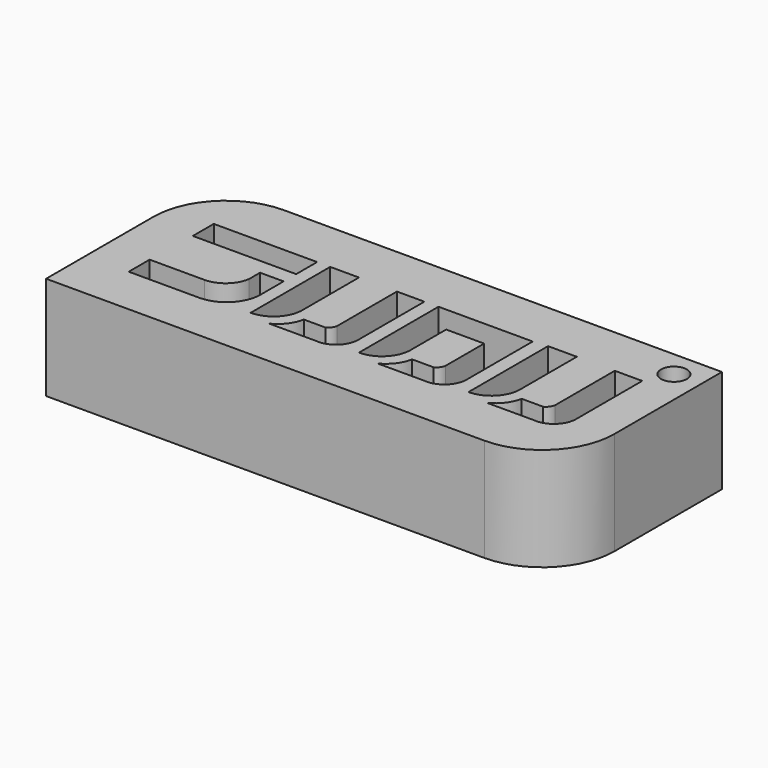
from build123d import *

# Parameters (mm, degrees)
F0_W     = 49.427262
F0_H     = 20
F1_DEPTH = 10
F2_W     = 10.004918
F2_H     = 2.53289
F3_DEPTH = 9
F4_R     = 7
F5_R     = 1.254098
F6_DEPTH = 10.001


with BuildPart() as f1:
    # F0 (on Top) → F1 (new body)
    with BuildSketch(Plane.XY):
        Rectangle(F0_W, F0_H)
    extrude(amount=F1_DEPTH)

    # F2 (on face) → F3 (cut)
    with BuildSketch(Plane.XY.offset(10)):
        with Locations((-15.424379, 3.665117)):
            Rectangle(F2_W, F2_H)
        with BuildLine():
            Line((-10.42192, 0.878937), (-12.701521, 0.878937))
            Line((-12.701521, 0.878937), (-12.701521, 0.245714))
            ThreePointArc((-12.701521, 0.245714), (-12.678233, -0.099326), (-12.701521, -0.444367))
            ThreePointArc((-12.701521, -0.444367), (-13.552341, -2.029358), (-15.234413, -2.66711))
            Line((-15.234413, -2.66711), (-20.553483, -2.66711))
            Line((-20.553483, -2.66711), (-20.553483, -5.2))
            Line((-20.553483, -5.2), (-13.717022, -5.2))
            ThreePointArc((-13.717022, -5.2), (-11.387862, -4.235716), (-10.42192, -1.907243))
            Line((-10.42192, -1.907243), (-10.42192, 0.878937))
        make_face()
        with BuildLine():
            ThreePointArc((-12.701521, -0.444367), (-12.678233, -0.099326), (-12.701521, 0.245714))
            Line((-12.701521, 0.245714), (-12.701521, -0.444367))
        make_face()
        with BuildLine():
            Line((-6.369294, 4.931562), (-9.155474, 4.931562))
            Line((-9.155474, 4.931562), (-9.155474, -4.693422))
            ThreePointArc((-9.155474, -4.693422), (-7.228804, -3.922643), (-6.369294, -2.033887))
            Line((-6.369294, -2.033887), (-6.369294, 4.931562))
        make_face()
        with BuildLine():
            Line((-0.037068, 4.931562), (-2.696603, 4.931562))
            Line((-2.696603, 4.931562), (-2.696603, -1.907243))
            ThreePointArc((-2.696603, -1.907243), (-2.679752, -2.097209), (-2.696603, -2.287176))
            ThreePointArc((-2.696603, -2.287176), (-2.882546, -2.726977), (-3.24005, -3.043506))
            ThreePointArc((-3.24005, -3.043506), (-3.759009, -3.176466), (-4.277969, -3.043506))
            Line((-4.277969, -3.043506), (-5.329138, -3.043506))
            ThreePointArc((-5.329138, -3.043506), (-5.889298, -4.314902), (-6.960199, -5.2))
            Line((-6.960199, -5.2), (-6.369294, -5.2))
            Line((-6.369294, -5.2), (-2.443314, -5.2))
            ThreePointArc((-2.443314, -5.2), (-0.805329, -4.703243), (-0.037068, -3.173688))
            Line((-0.037068, -3.173688), (-0.037068, 4.931562))
        make_face()
        with BuildLine():
            ThreePointArc((-2.696603, -2.287176), (-2.679752, -2.097209), (-2.696603, -1.907243))
            Line((-2.696603, -1.907243), (-2.696603, -2.287176))
        make_face()
        with BuildLine():
            ThreePointArc((-4.277969, -3.043506), (-3.759009, -3.176466), (-3.24005, -3.043506))
            Line((-3.24005, -3.043506), (-4.277969, -3.043506))
        make_face()
        with BuildLine():
            Line((4.09889, 4.95471), (1.31271, 4.95471))
            Line((1.31271, 4.95471), (1.31271, 2.398672))
            Line((1.31271, 2.398672), (1.31271, -4.670274))
            ThreePointArc((1.31271, -4.670274), (3.23938, -3.899495), (4.09889, -2.010739))
            Line((4.09889, -2.010739), (4.09889, 2.398672))
            Line((4.09889, 2.398672), (7.771581, 2.398672))
            Line((7.771581, 2.398672), (7.771581, -1.884095))
            ThreePointArc((7.771581, -1.884095), (7.788432, -2.074061), (7.771581, -2.264028))
            ThreePointArc((7.771581, -2.264028), (7.585638, -2.703829), (7.228134, -3.020358))
            ThreePointArc((7.228134, -3.020358), (6.709175, -3.153318), (6.190215, -3.020358))
            Line((6.190215, -3.020358), (5.139046, -3.020358))
            ThreePointArc((5.139046, -3.020358), (4.578886, -4.291754), (3.507985, -5.176852))
            Line((3.507985, -5.176852), (4.09889, -5.176852))
            Line((4.09889, -5.176852), (8.02487, -5.176852))
            ThreePointArc((8.02487, -5.176852), (9.662855, -4.680095), (10.431116, -3.15054))
            Line((10.431116, -3.15054), (10.431116, 2.398672))
            Line((10.431116, 2.398672), (10.431116, 4.95471))
            Line((10.431116, 4.95471), (7.771581, 4.95471))
            Line((7.771581, 4.95471), (4.09889, 4.95471))
        make_face()
        with BuildLine():
            ThreePointArc((7.771581, -2.264028), (7.788432, -2.074061), (7.771581, -1.884095))
            Line((7.771581, -1.884095), (7.771581, -2.264028))
        make_face()
        with BuildLine():
            ThreePointArc((6.190215, -3.020358), (6.709175, -3.153318), (7.228134, -3.020358))
            Line((7.228134, -3.020358), (6.190215, -3.020358))
        make_face()
        with BuildLine():
            Line((14.5961, 5.087933), (11.809921, 5.087933))
            Line((11.809921, 5.087933), (11.809921, -4.537051))
            ThreePointArc((11.809921, -4.537051), (13.73659, -3.766272), (14.5961, -1.877516))
            Line((14.5961, -1.877516), (14.5961, 5.087933))
        make_face()
        with BuildLine():
            Line((20.928327, 5.087933), (18.268792, 5.087933))
            Line((18.268792, 5.087933), (18.268792, -1.750871))
            ThreePointArc((18.268792, -1.750871), (18.285642, -1.940838), (18.268792, -2.130805))
            ThreePointArc((18.268792, -2.130805), (18.082849, -2.570606), (17.725345, -2.887134))
            ThreePointArc((17.725345, -2.887134), (17.206385, -3.020095), (16.687426, -2.887134))
            Line((16.687426, -2.887134), (15.636256, -2.887134))
            ThreePointArc((15.636256, -2.887134), (15.076097, -4.158531), (14.005196, -5.043629))
            Line((14.005196, -5.043629), (14.5961, -5.043629))
            Line((14.5961, -5.043629), (18.522081, -5.043629))
            ThreePointArc((18.522081, -5.043629), (20.160066, -4.546872), (20.928327, -3.017317))
            Line((20.928327, -3.017317), (20.928327, 5.087933))
        make_face()
        with BuildLine():
            ThreePointArc((18.268792, -2.130805), (18.285642, -1.940838), (18.268792, -1.750871))
            Line((18.268792, -1.750871), (18.268792, -2.130805))
        make_face()
        with BuildLine():
            ThreePointArc((16.687426, -2.887134), (17.206385, -3.020095), (17.725345, -2.887134))
            Line((17.725345, -2.887134), (16.687426, -2.887134))
        make_face()
    extrude(amount=-F3_DEPTH, mode=Mode.SUBTRACT)

    # F4
    f4_edges = [f1.edges().sort_by_distance(p)[0] for p in [
        (-24.713631, 10, 5),
        (24.713631, -10, 5),
    ]]
    fillet(f4_edges, radius=F4_R)

    # F5 (on face) → F6 (cut, through all)
    with BuildSketch(Plane.XY.offset(10)):
        with Locations((22.113672, 7.445175)):
            Circle(F5_R)
    extrude(amount=-F6_DEPTH, mode=Mode.SUBTRACT)


solid = f1.part
